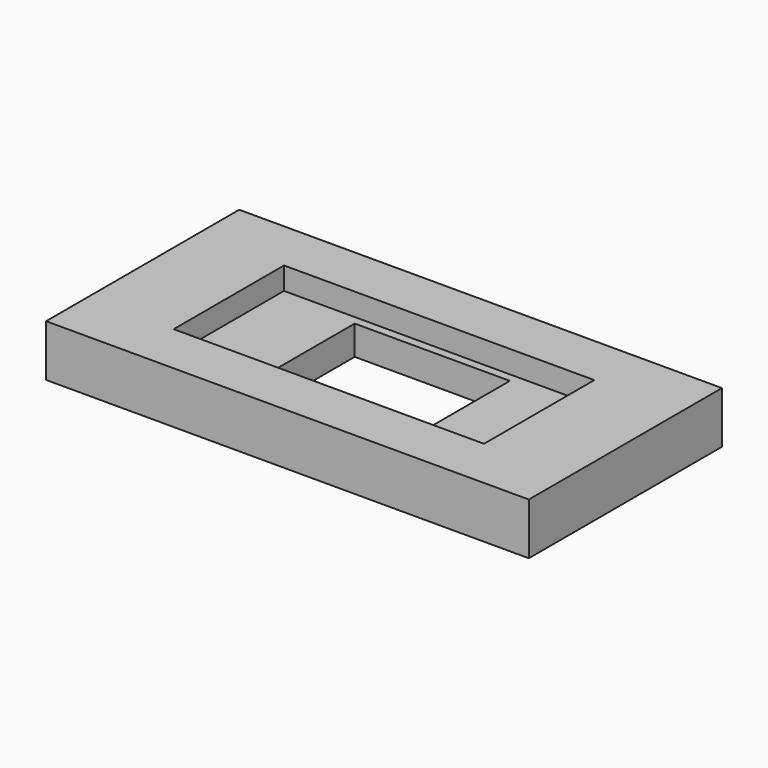
from build123d import *

# Parameters (mm, degrees)
F0_W     = 177.8
F0_H     = 88.9
F1_DEPTH = 19.05
F2_W     = 114.3
F2_H     = 50.8
F3_DEPTH = 8.255
F4_W     = 57.15
F4_H     = 44.45
F5_DEPTH = 19.051


with BuildPart() as f1:
    # F0 (on Top) → F1 (new body)
    with BuildSketch(Plane.XY):
        Rectangle(F0_W, F0_H)
    extrude(amount=F1_DEPTH)

    # F2 (on face) → F3 (cut)
    with BuildSketch(Plane.XY.offset(19.05)):
        Rectangle(F2_W, F2_H)
    extrude(amount=-F3_DEPTH, mode=Mode.SUBTRACT)

    # F4 (on face) → F5 (cut, through all)
    with BuildSketch(Plane(origin=(0, 0, 0), x_dir=(1, 0, 0), z_dir=(0, 0, -1))):
        Rectangle(F4_W, F4_H)
    extrude(amount=-F5_DEPTH, mode=Mode.SUBTRACT)


solid = f1.part
